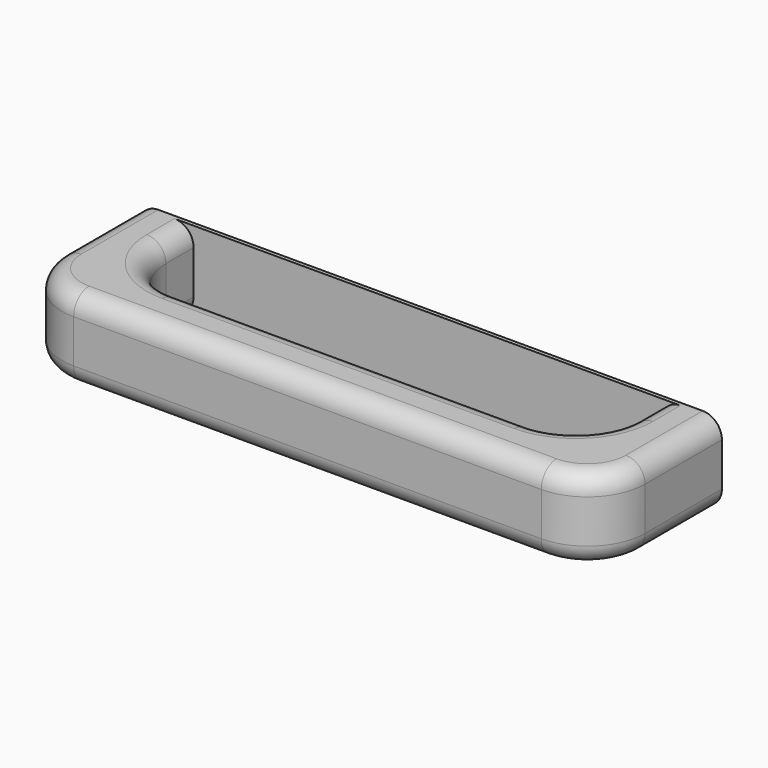
from build123d import *

# Parameters (mm, degrees)
SKETCH022_W     = 151.632409
SKETCH022_H     = 21.2714
PAD013_DEPTH    = 40
SKETCH023_W     = 121.632409
SKETCH023_H     = 24
POCKET009_DEPTH = 21.2724
FILLET014_R     = 15
FILLET015_R     = 5


with BuildPart() as part:
    # Sketch022 (on Face1 of CopyPocket008) → Pad013 (new body)
    with BuildSketch(Plane.XZ.offset(825)):
        with Locations((591.056032, -324.507206)):
            Rectangle(SKETCH022_W, SKETCH022_H)
    extrude(amount=PAD013_DEPTH)

    # Sketch023 (on Face4 of Pad013) → Pocket009 (cut, through all)
    with BuildSketch(Plane(origin=(0, 0, -313.871506), x_dir=(-1, 0, 0), z_dir=(0, 0, 1))):
        with Locations((-591.056032, 838)):
            Rectangle(SKETCH023_W, SKETCH023_H)
    extrude(amount=-POCKET009_DEPTH, mode=Mode.SUBTRACT)

    # Fillet014
    fillet014_edges = [part.edges().sort_by_distance(p)[0] for p in [
        (515.239828, -865, -324.507206),
        (666.872237, -865, -324.507206),
        (651.872237, -850, -324.507206),
        (530.239828, -850, -324.507206),
    ]]
    fillet(fillet014_edges, radius=FILLET014_R)

    # Fillet015
    fillet015_edges = [part.edges().sort_by_distance(p)[0] for p in [
        (591.056032, -850, -313.871506),
        (591.056032, -850, -335.142906),
        (591.056032, -865, -313.871506),
        (591.056032, -865, -335.142906),
    ]]
    fillet(fillet015_edges, radius=FILLET015_R)


solid = part.part
